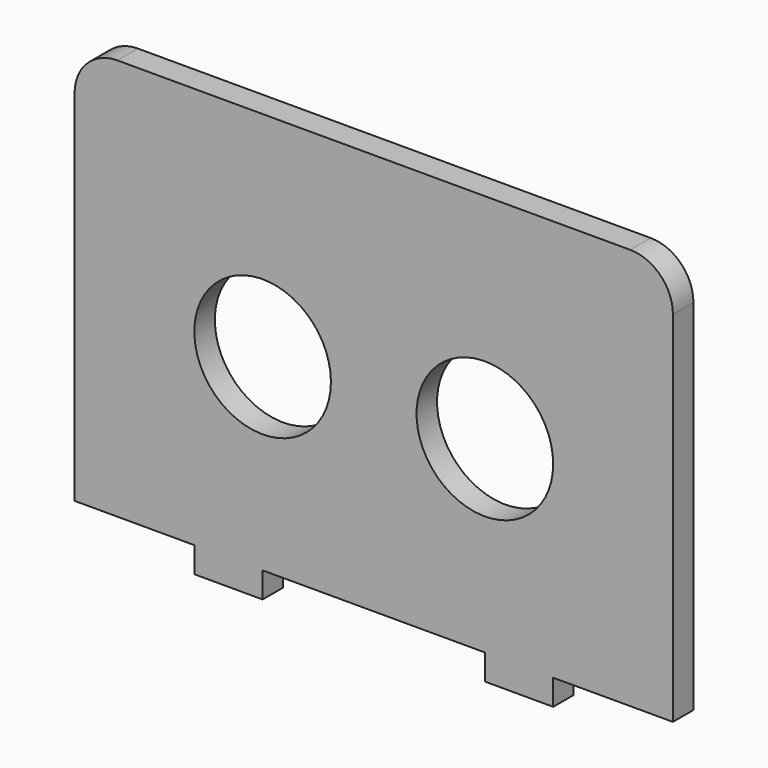
from build123d import *

# Parameters (mm, degrees)
F0_R     = 7.990862
F1_DEPTH = 3


with BuildPart() as f1:
    # F0 (on Front) → F1 (new body)
    with BuildSketch(Plane.XZ):
        with BuildLine():
            Line((30, 25), (-30, 25))
            ThreePointArc((-30, 25), (-33.535534, 23.535534), (-35, 20))
            Line((-35, 20), (-35, -22))
            Line((-35, -22), (-21, -22))
            Line((-21, -22), (-21, -25))
            Line((-21, -25), (-13, -25))
            Line((-13, -25), (-13, -22))
            Line((-13, -22), (13, -22))
            Line((13, -22), (13, -25))
            Line((13, -25), (21, -25))
            Line((21, -25), (21, -22))
            Line((21, -22), (35, -22))
            Line((35, -22), (35, 20))
            ThreePointArc((35, 20), (33.535534, 23.535534), (30, 25))
        make_face()
        with Locations((-13, 0)):
            Circle(F0_R, mode=Mode.SUBTRACT)
        with Locations((13, 0)):
            Circle(F0_R, mode=Mode.SUBTRACT)
    extrude(amount=F1_DEPTH)


solid = f1.part
